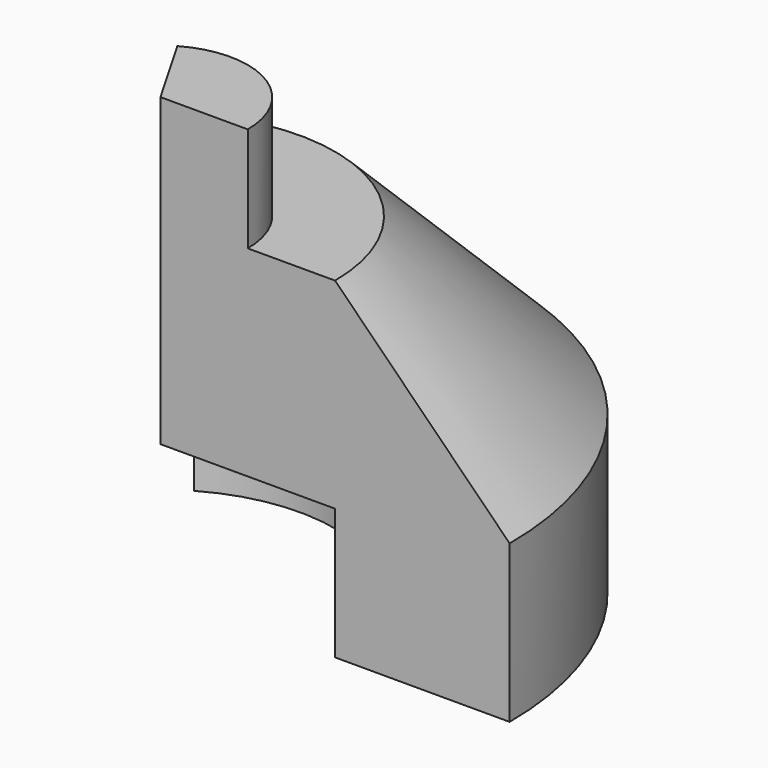
from build123d import *

# Parameters (mm, degrees)
F1_ANGLE = 120


with BuildPart() as f1:
    # F0 (on Front) → F1 (revolve)
    with BuildSketch(Plane.XZ):
        Polygon((0, 35), (0, 0), (20, 0), (20, -15), (40, -15), (40, 3), (20, 23), (10, 23), (10, 35), align=None)
    revolve(axis=Axis((0, 0, 17.5), (0, 0, 1)), revolution_arc=F1_ANGLE)


solid = f1.part
